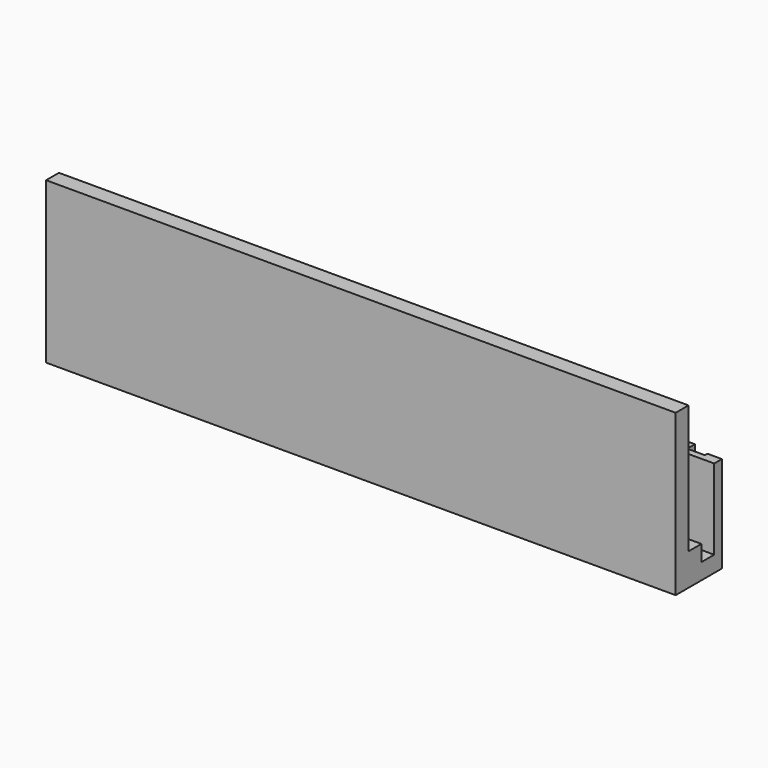
from build123d import *

# Parameters (mm, degrees)
F0_W     = 196
F0_H     = 5
F1_DEPTH = 50
F2_W     = 196
F2_H     = 5
F3_DEPTH = 10
F4_W     = 196
F4_H     = 5
F5_DEPTH = 5
F6_W     = 5.5
F6_H     = 2
F7_DEPTH = 30
F9_DEPTH = 5


with BuildPart() as f1:
    # F0 (on Top) → F1 (new body)
    with BuildSketch(Plane.XY):
        with Locations((98, 2.5)):
            Rectangle(F0_W, F0_H)
    extrude(amount=F1_DEPTH)

    # F2 (on Top) → F3 (join)
    with BuildSketch(Plane.XY):
        with Locations((98, 7.5)):
            Rectangle(F2_W, F2_H)
    extrude(amount=F3_DEPTH)

    # F4 (on Top) → F5 (join)
    with BuildSketch(Plane.XY):
        with Locations((98, 12.5)):
            Rectangle(F4_W, F4_H)
    extrude(amount=F5_DEPTH)

    # F6 (on Top) → F7 (join)
    with BuildSketch(Plane.XY):
        Polygon((0, 18), (0, 15), (4.5, 15), (4.5, 17), (4.5, 18), align=None)
        with Locations((7.25, 16)):
            Rectangle(F6_W, F6_H)
        Polygon((10, 17), (10, 15), (57, 15), (57, 20), (10, 20), align=None)
        Polygon((191.5, 15), (196, 15), (196, 18), (191.5, 18), (191.5, 17), align=None)
        with Locations((188.75, 16)):
            Rectangle(F6_W, F6_H)
        Polygon((139, 15), (186, 15), (186, 17), (186, 20), (139, 20), align=None)
    extrude(amount=F7_DEPTH)

    # F8 (on face) → F9 (join)
    with BuildSketch(Plane(origin=(0, 15, 0), x_dir=(-1, 0, 0), z_dir=(0, 1, 0))):
        Polygon((-139, 0), (-57, 0), (-57, 14), (-67, 14), (-129, 14), (-139, 14), align=None)
        Polygon((-67, 14), (-57, 14), (-57, 30), align=None)
        Polygon((-139, 30), (-139, 14), (-129, 14), align=None)
    extrude(amount=F9_DEPTH)


solid = f1.part
